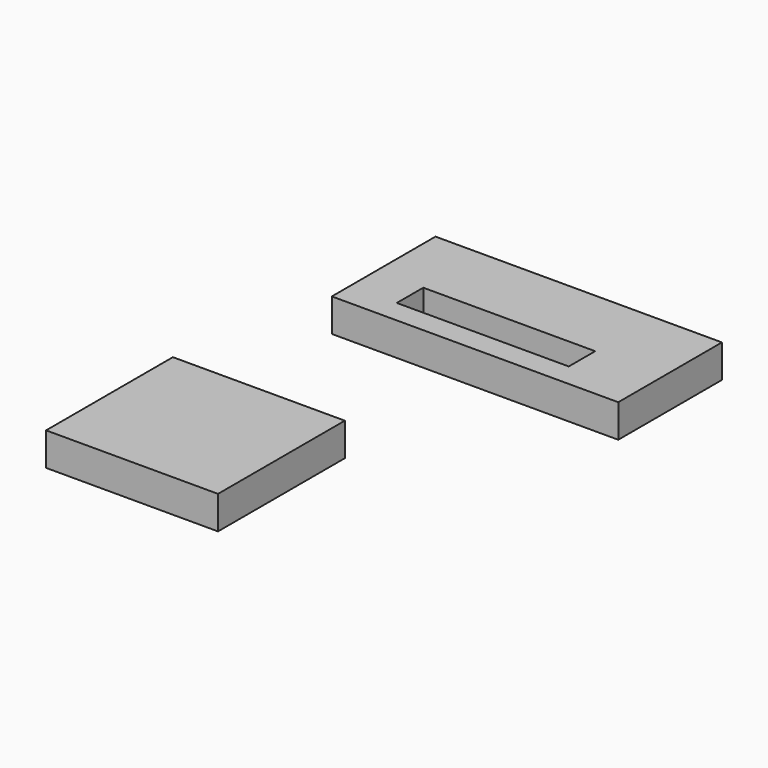
from build123d import *

# Parameters (mm, degrees)
F0_W     = 55.00872
F0_H     = 24.88314
F0_W_2   = 33.02
F0_H_2   = 6.35
F1_DEPTH = 6.35


with BuildPart() as f1:
    # F0 (on Top) → F1 (new body)
    with BuildSketch(Plane.XY):
        Polygon((6.873387, -29.08105), (-26.146613, -29.08105), (-26.146613, -35.43105), (-26.146613, -59.521422), (6.873387, -59.521422), (6.873387, -35.43105), align=None)
        with Locations((7.646006, 13.653584)):
            Rectangle(F0_W, F0_H)
        with Locations((5.585948, 8.817247)):
            Rectangle(F0_W_2, F0_H_2, mode=Mode.SUBTRACT)
    extrude(amount=F1_DEPTH)


solid = f1.part
